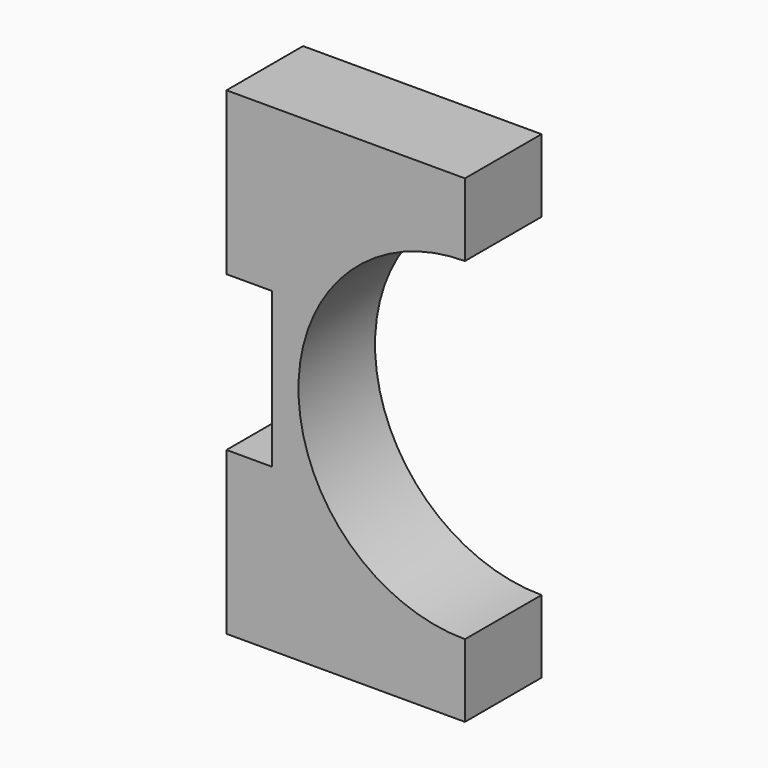
from build123d import *

# Parameters (mm, degrees)
F1_DEPTH = 25.4


with BuildPart() as f1:
    # F0 (on Front) → F1 (new body)
    with BuildSketch(Plane.XZ):
        with BuildLine():
            Line((6.587991, 76.630748), (-56.699019, 76.630748))
            Line((-56.699019, 76.630748), (-56.699019, 33.66233))
            Line((-56.699019, 33.66233), (-44.595942, 33.66233))
            Line((-44.595942, 33.66233), (-44.595942, -7.400833))
            Line((-44.595942, -7.400833), (-56.699019, -7.400833))
            Line((-56.699019, -7.400833), (-56.699019, -50.369252))
            Line((-56.699019, -50.369252), (6.587991, -50.369252))
            Line((6.587991, -50.369252), (6.587991, -31.048073))
            ThreePointArc((6.587991, -31.048073), (-37.59083, 13.130748), (6.587991, 57.30957))
            Line((6.587991, 57.30957), (6.587991, 76.630748))
        make_face()
    extrude(amount=F1_DEPTH)


solid = f1.part
